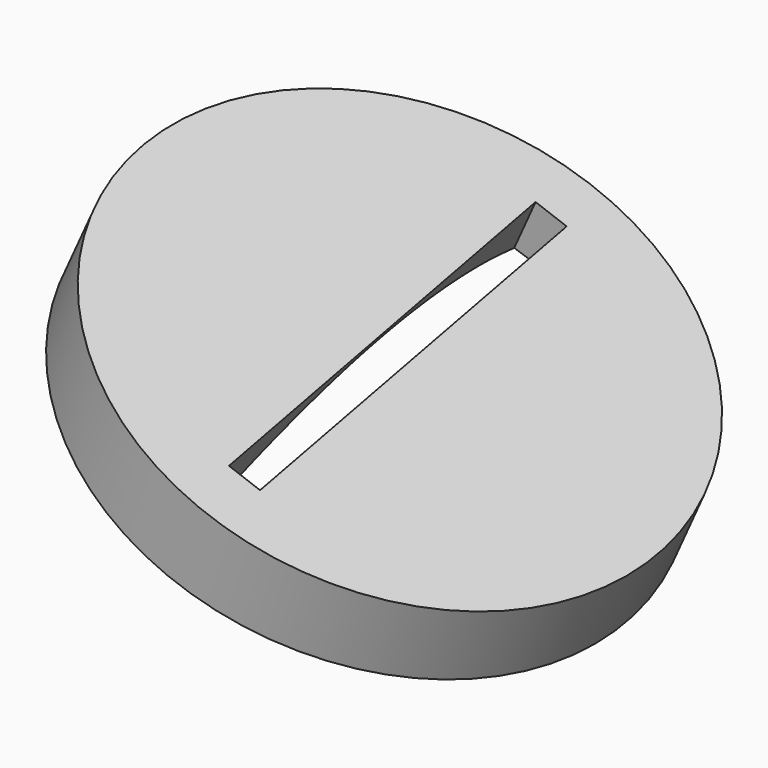
from build123d import *

# Parameters (mm, degrees)
BOX_W               = 3
BOX_H               = 18
BOX_DEPTH           = 40
BOX_PLACEMENT_ANGLE = 20
CUT_ROLL_ANGLE      = -73.158244
CUT_PITCH_ANGLE     = 21.416057
CUT_PLACEMENT_ANGLE = 28.591024


with BuildPart() as slot:
    # Box → Box (new body)
    with BuildSketch(Plane.XY):
        with Locations((1.5, 9)):
            Rectangle(BOX_W, BOX_H)
    extrude(amount=BOX_DEPTH)


with BuildPart() as slot_1:
    # Box placement: moved
    add(slot.part.moved(Location((-8.5, -6, -18))).rotate(Axis((-8.5, -6, -18), (0, 1, 0)), BOX_PLACEMENT_ANGLE))


with BuildPart() as obj1:
    # Sketch → Revolve (revolve)
    with BuildSketch(Plane.XY):
        with BuildLine():
            Line((-25, 0), (0, 0))
            Line((0, 0), (0, 0.410997))
            add(Edge.make_bspline(
                [(0, 0.410997), (-12.5, 0.410997), (-25, 8)],
                knots=[0, 0, 0, 25, 25, 25], degree=2))
            Line((-25, 8), (-25, 0))
        make_face()
    revolve(axis=Axis((0, 0, 0), (0, 1, 0)))

    # Cut: cut slot
    add(slot_1.part, mode=Mode.SUBTRACT)


with BuildPart() as obj1_1:
    # Cut roll: moved
    add(obj1.part.rotate(Axis((0, 0, 0), (1, 0, 0)), CUT_ROLL_ANGLE))


with BuildPart() as obj1_2:
    # Cut pitch: moved
    add(obj1_1.part.rotate(Axis((0, 0, 0), (0, 1, 0)), CUT_PITCH_ANGLE))


with BuildPart() as obj1_3:
    # Cut placement: moved
    add(obj1_2.part.moved(Location((0, 0, 89))).rotate(Axis((0, 0, 89), (0, 0, 1)), CUT_PLACEMENT_ANGLE))


solid = obj1_3.part
